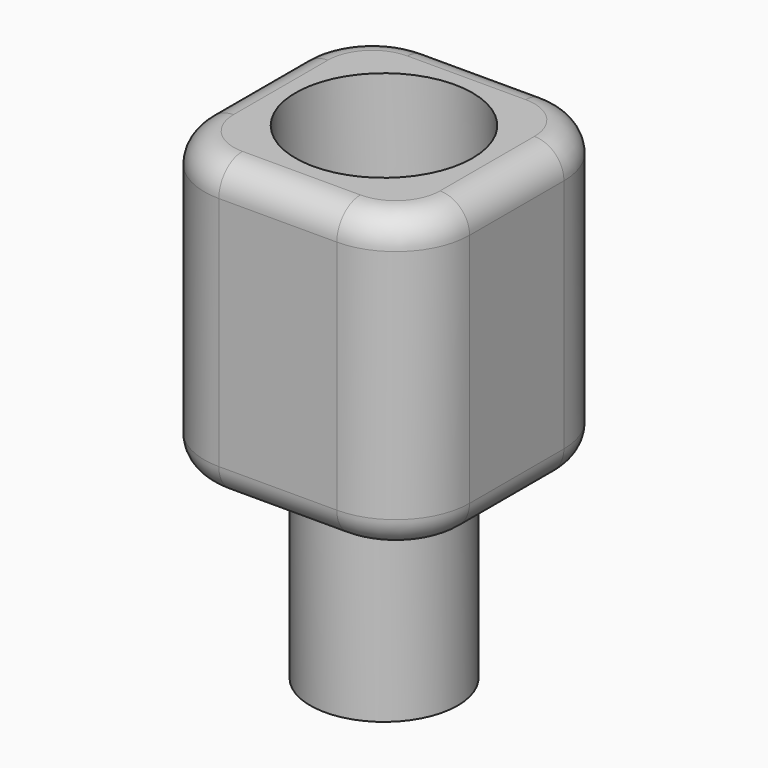
from build123d import *

# Parameters (mm, degrees)
F0_R      = 2.5
F0_R_2    = 1.5
F1_DEPTH  = 6.5
F2_W      = 9
F2_H      = 9
F3_DEPTH  = 10
F4_R      = 2.5
F5_R      = 1
F3_FACE_R = 1.5
F6_DEPTH  = 10
F7_R      = 3
F8_DEPTH  = 4


with BuildPart() as f1:
    # F0 (on Top) → F1 (new body)
    with BuildSketch(Plane.XY):
        Circle(F0_R)
        Circle(F0_R_2, mode=Mode.SUBTRACT)
    extrude(amount=F1_DEPTH)

    # F2 (on face) → F3 (join)
    with BuildSketch(Plane.XY.offset(6.5)):
        Rectangle(F2_W, F2_H)
    extrude(amount=F3_DEPTH)

    # F4
    f4_edges = [f1.edges().sort_by_distance(p)[0] for p in [
        (-4.5, -4.5, 11.5),
        (4.5, -4.5, 11.5),
        (4.5, 4.5, 11.5),
        (-4.5, 4.5, 11.5),
    ]]
    fillet(f4_edges, radius=F4_R)

    # F5
    f5_edges = [f1.edges().sort_by_distance(p)[0] for p in [
        (-4.5, 0, 6.5),
        (-4.5, 0, 16.5),
    ]]
    fillet(f5_edges, radius=F5_R)

    # F3_face (on face) → F6 (cut)
    with BuildSketch(Plane(origin=(0, 0, 6.5), x_dir=(1, 0, 0), z_dir=(0, 0, -1))):
        Circle(F3_FACE_R)
    extrude(amount=-F6_DEPTH, mode=Mode.SUBTRACT)

    # F7 (on face) → F8 (cut)
    with BuildSketch(Plane.XY.offset(16.5)):
        Circle(F7_R)
    extrude(amount=-F8_DEPTH, mode=Mode.SUBTRACT)


solid = f1.part
